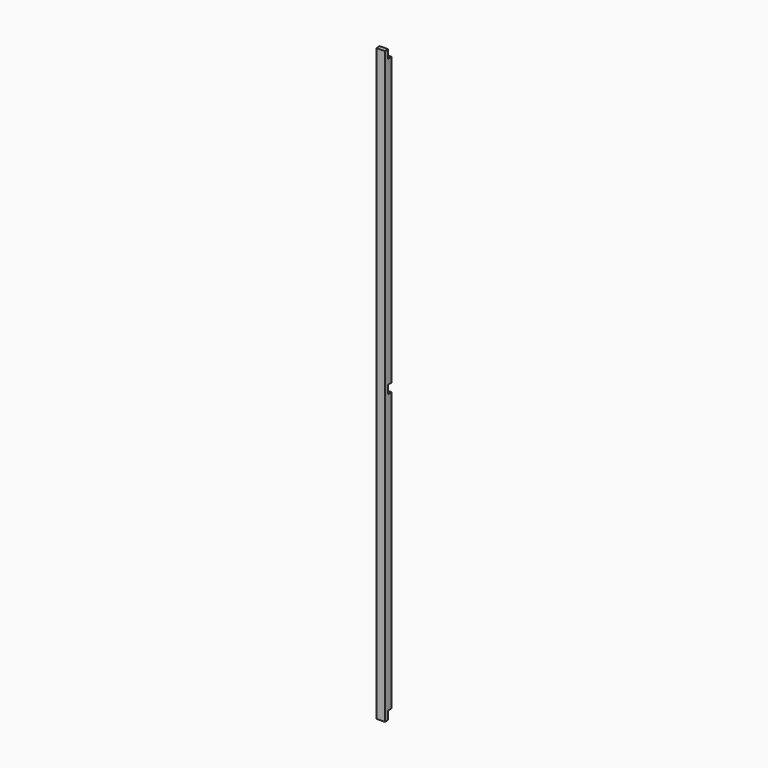
from build123d import *

# Parameters (mm, degrees)
F1_DEPTH = 10
F2_R     = 2
F3_DEPTH = 4.5
F5_W     = 5
F5_H     = 10
F6_DEPTH = 10.001
F7_R     = 2
F8_DEPTH = 4.5


with BuildPart() as f1:
    # F0 (on Right) → F1 (new body)
    with BuildSketch(Plane.YZ):
        Polygon((-10, 0), (0, 0), (0, 340), (-5, 340), (-5, 350), (-10, 350), align=None)
    extrude(amount=F1_DEPTH)

    # F2 (on face) → F3 (cut)
    with BuildSketch(Plane(origin=(0, -5, 0), x_dir=(-1, 0, 0), z_dir=(0, 1, 0))):
        with Locations((-5, 345)):
            Circle(F2_R)
    extrude(amount=-F3_DEPTH, mode=Mode.SUBTRACT)

    # F4: F1 across plane


with BuildPart() as f1_1:
    add(f1.part)
    add(f1.part.mirror(Plane.XY))

    # F5 (on face) → F6 (cut, through all)
    with BuildSketch(Plane.YZ.offset(10)):
        with Locations((-2.5, -5)):
            Rectangle(F5_W, F5_H)
    extrude(amount=-F6_DEPTH, mode=Mode.SUBTRACT)

    # F7 (on face) → F8 (cut)
    with BuildSketch(Plane(origin=(0, -5, 0), x_dir=(-1, 0, 0), z_dir=(0, 1, 0))):
        with Locations((-5, -5)):
            Circle(F7_R)
    extrude(amount=-F8_DEPTH, mode=Mode.SUBTRACT)


solid = f1_1.part
